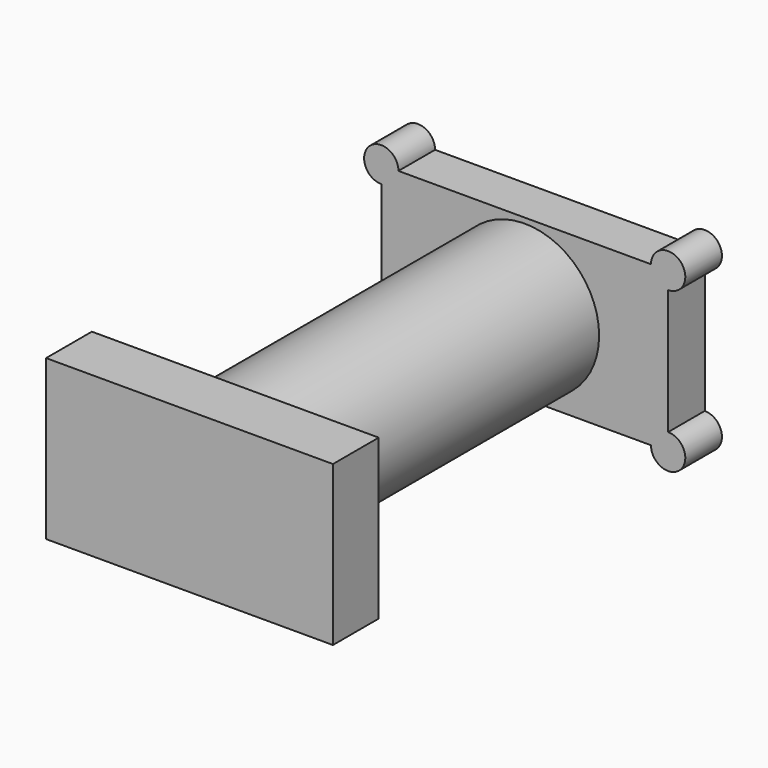
from build123d import *

# Parameters (mm, degrees)
F1_DEPTH = 20
F2_R     = 32.5
F3_DEPTH = 158
F4_W     = 125.283194
F4_H     = 69.601772
F5_DEPTH = 25


with BuildPart() as f1:
    # F0 (on Front) → F1 (new body)
    with BuildSketch(Plane.XZ):
        with BuildLine():
            ThreePointArc((62.641597, 27.300886), (67.944897, 40.104186), (55.141597, 34.800886))
            Line((55.141597, 34.800886), (-55.141597, 34.800886))
            ThreePointArc((-55.141597, 34.800886), (-67.944897, 40.104186), (-62.641597, 27.300886))
            Line((-62.641597, 27.300886), (-62.641597, -27.300886))
            ThreePointArc((-62.641597, -27.300886), (-67.944897, -40.104186), (-55.141597, -34.800886))
            Line((-55.141597, -34.800886), (55.141597, -34.800886))
            ThreePointArc((55.141597, -34.800886), (67.944897, -40.104186), (62.641597, -27.300886))
            Line((62.641597, -27.300886), (62.641597, 27.300886))
        make_face()
    extrude(amount=F1_DEPTH)

    # F2 (on face) → F3 (join)
    with BuildSketch(Plane.XZ.offset(20)):
        Circle(F2_R)
    extrude(amount=F3_DEPTH)

    # F4 (on face) → F5 (join)
    with BuildSketch(Plane.XZ.offset(178)):
        Rectangle(F4_W, F4_H)
    extrude(amount=F5_DEPTH)


solid = f1.part
